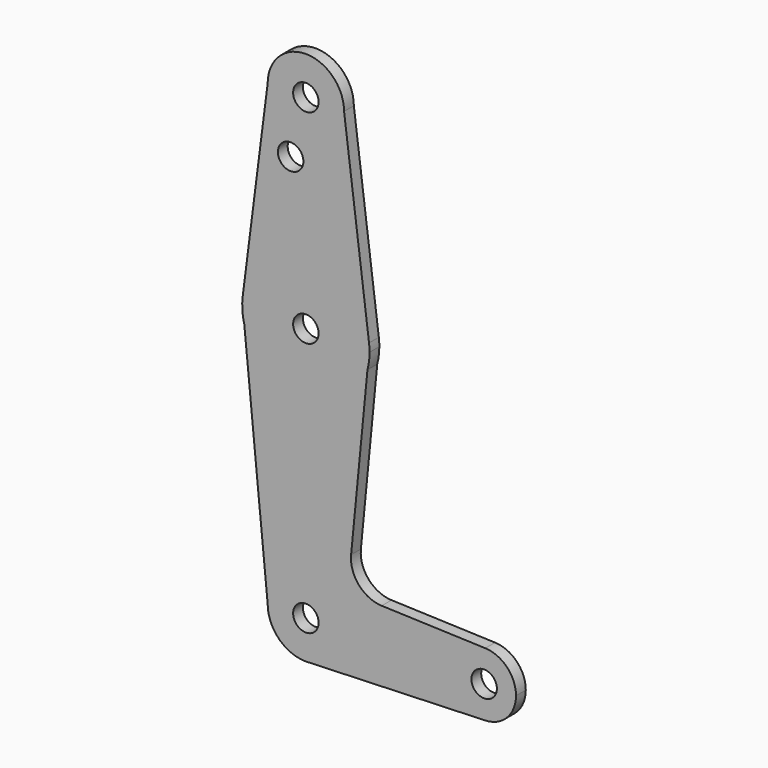
from build123d import *

# Parameters (mm, degrees)
F0_R     = 3.175
F1_DEPTH = 3.048


with BuildPart() as f1:
    # F0 (on Front) → F1 (new body)
    with BuildSketch(Plane.XZ):
        with BuildLine():
            ThreePointArc((-9.525, 114.3), (0, 104.775), (9.525, 114.3))
            ThreePointArc((9.525, 114.3), (0, 123.825), (-9.525, 114.3))
        make_face()
        with Locations((0, 114.3)):
            Circle(F0_R, mode=Mode.SUBTRACT)
        with BuildLine():
            Line((15.747457, 65.508289), (9.525, 114.3))
            ThreePointArc((9.525, 114.3), (0, 104.775), (-9.525, 114.3))
            Line((-9.525, 114.3), (-15.747457, 65.508289))
            ThreePointArc((-15.747457, 65.508289), (0, 79.375), (15.747457, 65.508289))
        make_face()
        with Locations((-3.79689, 100.0252)):
            Circle(F0_R, mode=Mode.SUBTRACT)
        with BuildLine():
            ThreePointArc((15.875, 63.5), (15.843082, 64.506168), (15.747457, 65.508289))
            ThreePointArc((15.747457, 65.508289), (0, 79.375), (-15.747457, 65.508289))
            ThreePointArc((-15.747457, 65.508289), (-15.841077, 62.462746), (-15.351122, 59.455414))
            ThreePointArc((-15.351122, 59.455414), (0.008942, 47.625003), (15.355669, 59.472711))
            ThreePointArc((15.355669, 59.472711), (15.744632, 61.469682), (15.875, 63.5))
        make_face()
        with Locations((0, 63.5)):
            Circle(F0_R, mode=Mode.SUBTRACT)
        with BuildLine():
            ThreePointArc((15.355669, 59.472711), (0.008942, 47.625003), (-15.351122, 59.455414))
            Line((-15.351122, 59.455414), (-9.525, 0))
            ThreePointArc((-9.525, 0), (0, 9.525), (9.525, 0))
            ThreePointArc((9.525, 0), (6.970557, -6.491299), (0.677344, -9.500886))
            Line((0.677344, -9.500886), (44.732405, -7.932475))
            ThreePointArc((44.732405, -7.932475), (36.5125, 0), (44.732405, 7.932475))
            Line((44.732405, 7.932475), (18.908908, 8.851821))
            ThreePointArc((18.908908, 8.851821), (13.210127, 11.560033), (11.278921, 17.566775))
            Line((11.278921, 17.566775), (15.355669, 59.472711))
        make_face()
        with BuildLine():
            ThreePointArc((9.525, 0), (0, 9.525), (-9.525, 0))
            ThreePointArc((-9.525, 0), (-6.735192, -6.735192), (0, -9.525))
            Line((0, -9.525), (0.677344, -9.500886))
            ThreePointArc((0.677344, -9.500886), (6.970557, -6.491299), (9.525, 0))
        make_face()
        Circle(F0_R, mode=Mode.SUBTRACT)
        with BuildLine():
            Line((0.677344, -9.500886), (0, -9.525))
            ThreePointArc((0, -9.525), (0.338886, -9.51897), (0.677344, -9.500886))
        make_face()
        with BuildLine():
            ThreePointArc((52.3875, 0), (50.161633, 5.51191), (44.732405, 7.932475))
            ThreePointArc((44.732405, 7.932475), (36.5125, 0), (44.732405, -7.932475))
            ThreePointArc((44.732405, -7.932475), (50.161633, -5.51191), (52.3875, 0))
        make_face()
        with Locations((44.45, 0)):
            Circle(F0_R, mode=Mode.SUBTRACT)
    extrude(amount=F1_DEPTH)


solid = f1.part
